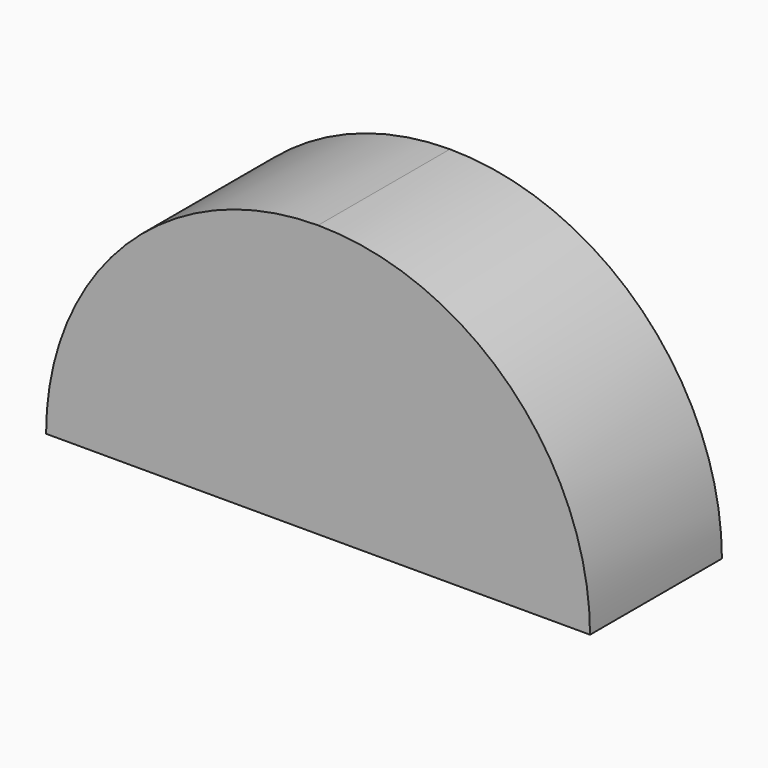
from build123d import *

# Parameters (mm, degrees)
F1_DEPTH = 12.7


with BuildPart() as f1:
    # F0 (on Front) → F1 (new body)
    with BuildSketch(Plane.XZ):
        with BuildLine():
            Line((0, 20.955), (0, 0))
            Line((0, 0), (20.955, 0))
            ThreePointArc((20.955, 0), (14.817423, 14.817423), (0, 20.955))
        make_face()
        with BuildLine():
            Line((-20.955, 0), (0, 0))
            Line((0, 0), (0, 20.955))
            ThreePointArc((0, 20.955), (-14.817423, 14.817423), (-20.955, 0))
        make_face()
    extrude(amount=F1_DEPTH)


solid = f1.part
